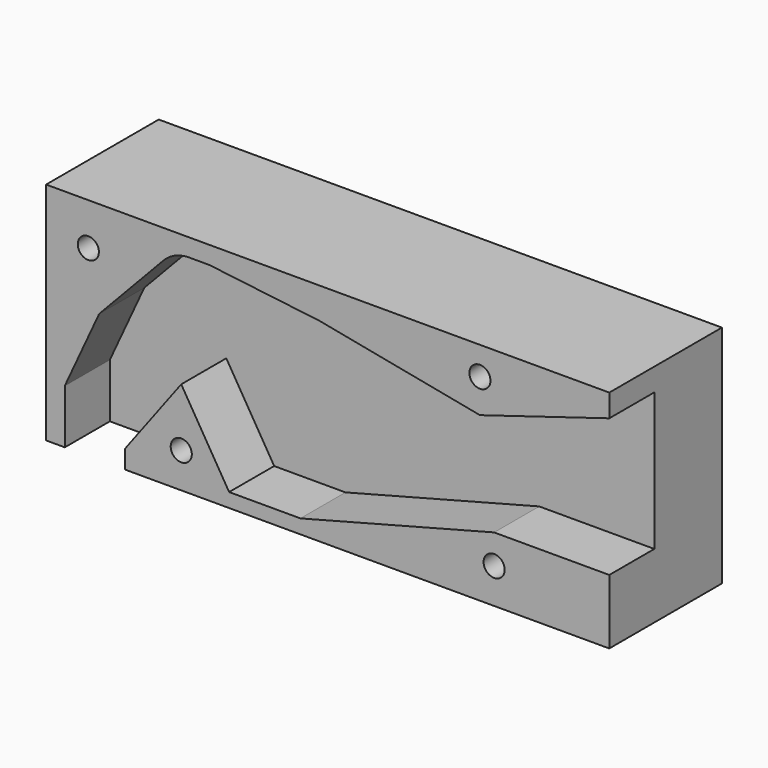
from build123d import *

# Parameters (mm, degrees)
F1_DEPTH = 8
F3_DEPTH = 12
F4_R     = 1.5
F5_DEPTH = 20.001


with BuildPart() as f1:
    # F0 (on Front) → F1 (new body)
    with BuildSketch(Plane.XZ):
        with BuildLine():
            Line((6.826992, 11.829606), (8, 11.68729))
            Line((8, 11.68729), (8.825802, 11.587099))
            Line((8.825802, 11.587099), (8.860913, 11.582839))
            Line((8.860913, 11.582839), (31.622957, 7.201101))
            Line((31.622957, 7.201101), (50, 12.781211))
            Line((50, 12.781211), (50, 16))
            Line((50, 16), (8, 16))
            Line((8, 16), (-8, 16))
            Line((-8, 16), (-30, 16))
            Line((-30, 16), (-30, -16))
            Line((-30, -16), (-27.340422, -16))
            Line((-27.340422, -16), (-27.340422, -8.306063))
            Line((-27.340422, -8.306063), (-22.455454, 2.286336))
            Line((-22.455454, 2.286336), (-13.329045, 11.921342))
            ThreePointArc((-13.329045, 11.921342), (-11.915348, 12.964857), (-10.227935, 13.454859))
            ThreePointArc((-10.227935, 13.454859), (-9.96384, 13.475896), (-9.699001, 13.482915))
            Line((-9.699001, 13.482915), (-8, 13.482915))
            Line((-8, 13.482915), (-7.5937, 13.482915))
            Line((-7.5937, 13.482915), (-6.8, 13.482915))
            Line((-6.8, 13.482915), (0, 12.657898))
            Line((0, 12.657898), (6.826992, 11.829606))
        make_face()
        Polygon((0, -16), (0, -14), (-4, -14), (-10.8, -2.733333), (-18.8, -13.4), (-18.8, -16), align=None)
        Polygon((6.128575, -14), (0, -14), (0, -16), (50, -16), (50, -6.804848), (33.646384, -6.804848), align=None)
    extrude(amount=F1_DEPTH)

    # F2 (on face) → F3 (join)
    with BuildSketch(Plane(origin=(0, 0, 0), x_dir=(-1, 0, 0), z_dir=(0, 1, 0))):
        with BuildLine():
            Line((-31.622957, 7.201101), (-50, 12.781211))
            Line((-50, 12.781211), (-50, -6.804848))
            Line((-50, -6.804848), (-33.646384, -6.804848))
            Line((-33.646384, -6.804848), (-6.128575, -14))
            Line((-6.128575, -14), (4, -14))
            Line((4, -14), (10.8, -2.733333))
            Line((10.8, -2.733333), (18.8, -13.4))
            Line((18.8, -13.4), (18.8, -16))
            Line((18.8, -16), (27.340422, -16))
            Line((27.340422, -16), (27.340422, -8.306063))
            Line((27.340422, -8.306063), (22.455454, 2.286336))
            Line((22.455454, 2.286336), (13.329045, 11.921342))
            ThreePointArc((13.329045, 11.921342), (11.674838, 13.07596), (9.699001, 13.482915))
            Line((9.699001, 13.482915), (8, 13.482915))
            Line((8, 13.482915), (6.8, 13.482915))
            Line((6.8, 13.482915), (-8.860913, 11.582839))
            Line((-8.860913, 11.582839), (-31.622957, 7.201101))
        make_face()
        with BuildLine():
            Line((30, -16), (30, 16))
            Line((30, 16), (-50, 16))
            Line((-50, 16), (-50, 12.781211))
            Line((-50, 12.781211), (-31.622957, 7.201101))
            Line((-31.622957, 7.201101), (-8.860913, 11.582839))
            Line((-8.860913, 11.582839), (6.8, 13.482915))
            Line((6.8, 13.482915), (8, 13.482915))
            Line((8, 13.482915), (9.699001, 13.482915))
            ThreePointArc((9.699001, 13.482915), (11.674838, 13.07596), (13.329045, 11.921342))
            Line((13.329045, 11.921342), (22.455454, 2.286336))
            Line((22.455454, 2.286336), (27.340422, -8.306063))
            Line((27.340422, -8.306063), (27.340422, -16))
            Line((27.340422, -16), (30, -16))
        make_face()
        Polygon((-33.646384, -6.804848), (-50, -6.804848), (-50, -16), (18.8, -16), (18.8, -13.4), (10.8, -2.733333), (4, -14), (-6.128575, -14), align=None)
    extrude(amount=F3_DEPTH)

    # F4 (on face) → F5 (cut, through all)
    with BuildSketch(Plane.XZ.offset(8)):
        with Locations((-24, 10)):
            Circle(F4_R)
        with Locations((-10.8, -11)):
            Circle(F4_R)
        with Locations((33.646384, -11)):
            Circle(F4_R)
        with Locations((31.622957, 12)):
            Circle(F4_R)
    extrude(amount=-F5_DEPTH, mode=Mode.SUBTRACT)


solid = f1.part
